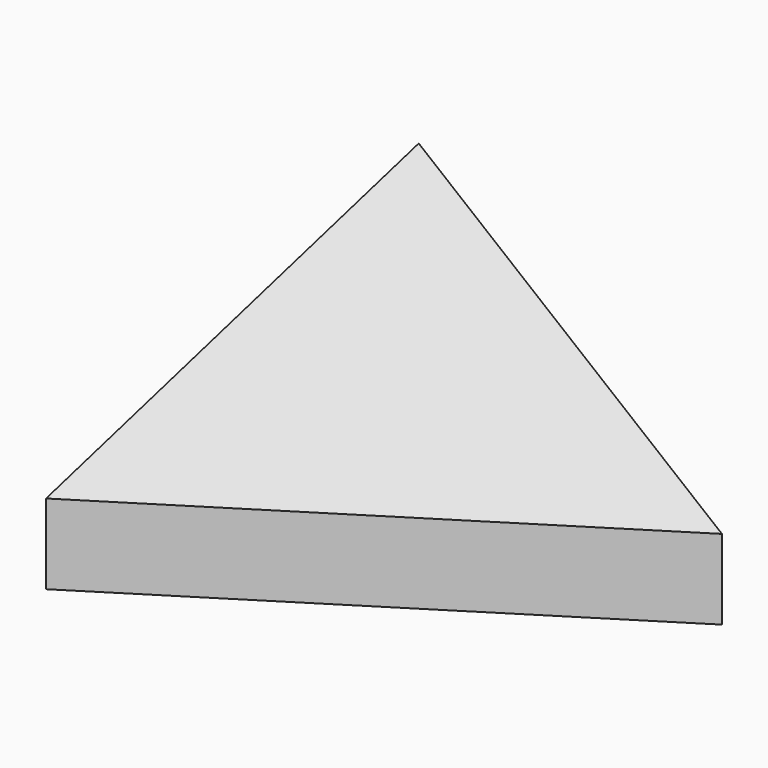
from build123d import *

# Parameters (mm, degrees)
F1_DEPTH = 25


with BuildPart() as f1:
    # F0 (on Top) → F1 (new body)
    with BuildSketch(Plane.XY):
        Polygon((-52.843124, 85.676081), (-46.507098, -80.440745), (94.186281, 8.104828), align=None)
    extrude(amount=F1_DEPTH)

    # F1_face (on face) → F4 section 0
    with BuildSketch(Plane(origin=(-1.721314, 4.446722, 25), x_dir=(1, 0, 0), z_dir=(0, 0, 1)), mode=Mode.PRIVATE) as f4_s0:
        Polygon((95.907594, 3.658107), (-51.12181, 81.22936), (-44.785784, -84.887466), align=None)
    loft([Vertex(-2.797541, 10.719268, 100), f4_s0.sketch])


solid = f1.part
